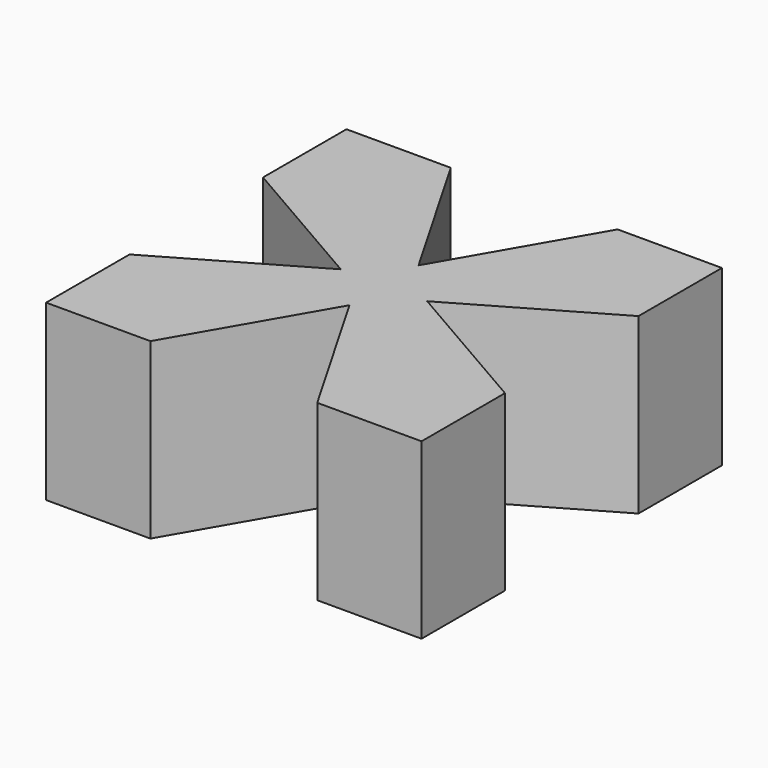
from build123d import *

# Parameters (mm, degrees)
F1_DEPTH = 25


with BuildPart() as f1:
    # F0 (on Top) → F1 (new body)
    with BuildSketch(Plane.XY):
        Polygon((-11.774864, -29.124606), (-11.774864, -44.124606), (3.225136, -44.124606), (15.225136, -23.339997), (27.225136, -44.124606), (42.225136, -44.124606), (42.225136, -29.124606), (21.440526, -17.124606), (42.225136, -5.124606), (42.225136, 9.875394), (27.225136, 9.875394), (15.225136, -10.909216), (3.225136, 9.875394), (-11.774864, 9.875394), (-11.774864, -5.124606), (9.009745, -17.124606), align=None)
    extrude(amount=F1_DEPTH)


solid = f1.part
